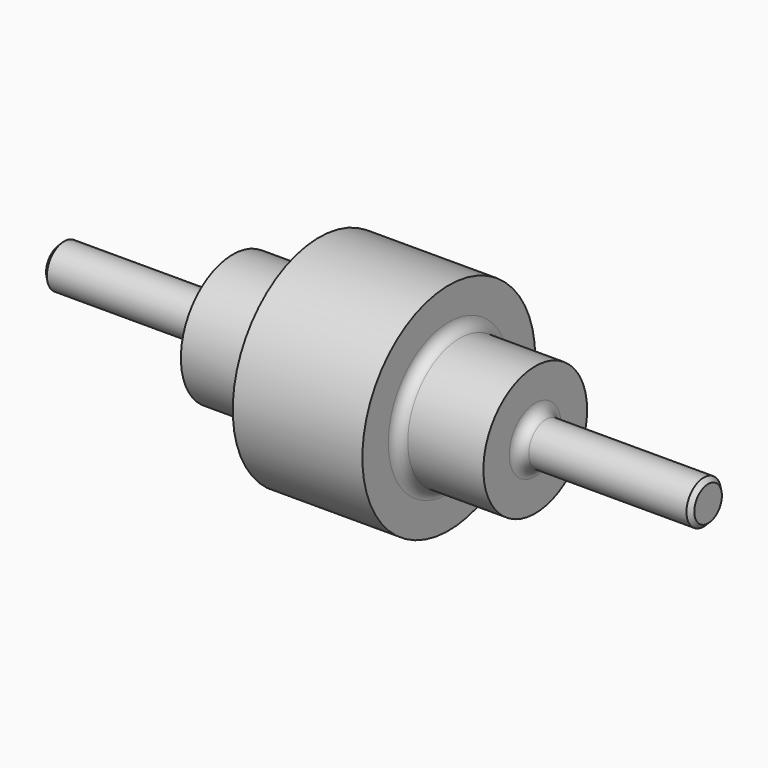
from build123d import *

# Parameters (mm, degrees)
F2_R    = 5
F3_SIZE = 2
F4_R    = 5


with BuildPart() as f1:
    # F0 (on Top) → F1 (revolve)
    with BuildSketch(Plane.XY):
        Polygon((-150, 10), (-150, 0), (150, 0), (150, 10), (70, 10), (70, 30), (30, 30), (30, 50), (-30, 50), (-30, 30), (-70, 30), (-70, 10), align=None)
    revolve(axis=Axis((0, 0, 0), (1, 0, 0)))

    # F2
    f2_edges = [f1.edges().sort_by_distance(p)[0] for p in [
        (-30, -30, 0),
        (30, -30, 0),
    ]]
    fillet(f2_edges, radius=F2_R)

    # F3
    f3_edges = [f1.edges().sort_by_distance(p)[0] for p in [
        (-150, -10, 0),
        (150, -10, 0),
    ]]
    chamfer(f3_edges, length=F3_SIZE)

    # F4
    f4_edges = [f1.edges().sort_by_distance(p)[0] for p in [
        (-70, -10, 0),
        (70, -10, 0),
    ]]
    fillet(f4_edges, radius=F4_R)


solid = f1.part
